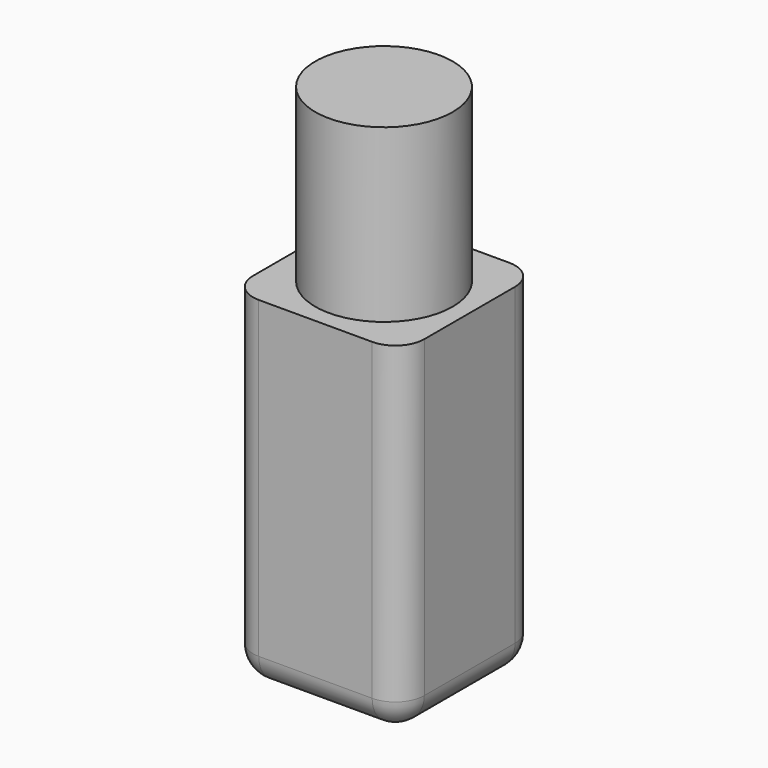
from build123d import *

# Parameters (mm, degrees)
F0_W     = 25.4
F0_H     = 25.4
F1_DEPTH = 50.8
F2_R     = 4.292472
F3_R     = 10.181581
F4_DEPTH = 25.4


with BuildPart() as f1:
    # F0 (on Top) → F1 (new body)
    with BuildSketch(Plane.XY):
        Rectangle(F0_W, F0_H)
    extrude(amount=F1_DEPTH)

    # F2
    f2_edges = [f1.edges().sort_by_distance(p)[0] for p in [
        (12.7, -12.7, 25.4),
        (12.7, 12.7, 25.4),
        (-12.7, -12.7, 25.4),
        (-12.7, 12.7, 25.4),
        (0, 12.7, 0),
        (-12.7, 0, 0),
        (0, -12.7, 0),
        (12.7, 0, 0),
    ]]
    fillet(f2_edges, radius=F2_R)

    # F3 (on face) → F4 (join)
    with BuildSketch(Plane.XY.offset(50.8)):
        Circle(F3_R)
    extrude(amount=F4_DEPTH)


solid = f1.part
